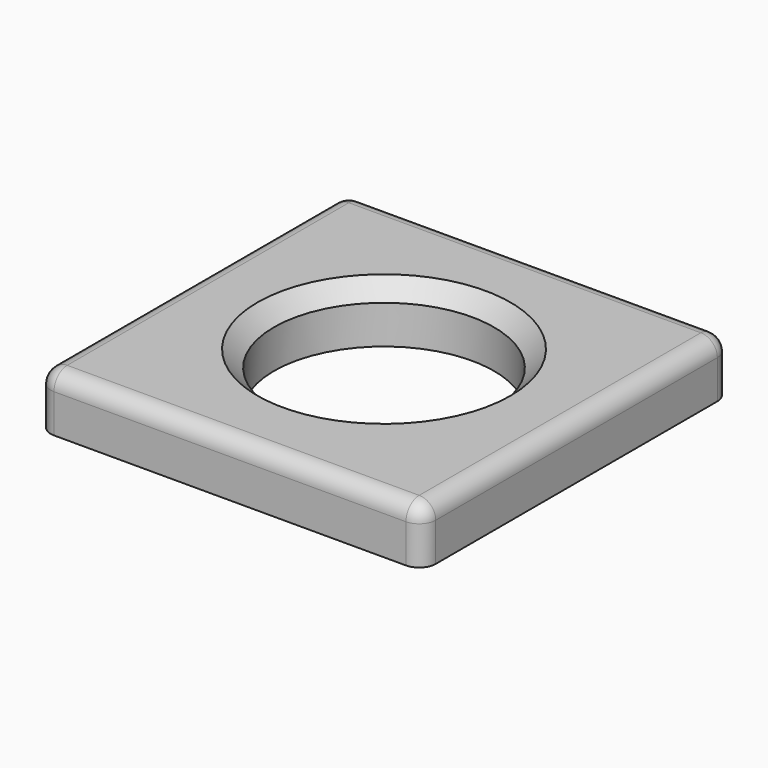
from build123d import *

# Parameters (mm, degrees)
CYLINDER_R     = 20
CYLINDER_DEPTH = 20
BOX_W          = 70
BOX_H          = 70
BOX_DEPTH      = 10
CHAMFER_SIZE   = 3
FILLET_R       = 3


with BuildPart() as cylinder:
    # Cylinder → Cylinder (new body)
    with BuildSketch(Plane.XY.offset(-1)):
        Circle(CYLINDER_R)
    extrude(amount=CYLINDER_DEPTH)


with BuildPart() as fillet_body:
    # Box → Box (new body)
    with BuildSketch(Plane(origin=(-35, -35, 0), x_dir=(1, 0, 0), z_dir=(0, 0, 1))):
        with Locations((35, 35)):
            Rectangle(BOX_W, BOX_H)
    extrude(amount=BOX_DEPTH)

    # Cut: cut Cylinder
    add(cylinder.part, mode=Mode.SUBTRACT)

    # Chamfer
    chamfer_edges = [fillet_body.edges().sort_by_distance(p)[0] for p in [
        (-20, 0, 10),
    ]]
    chamfer(chamfer_edges, length=CHAMFER_SIZE)

    # Fillet
    fillet_edges = [fillet_body.edges().sort_by_distance(p)[0] for p in [
        (-35, 0, 10),
        (0, 35, 10),
        (0, -35, 10),
        (35, 0, 10),
        (-35, -35, 5),
        (-35, 35, 5),
        (35, 35, 5),
        (35, -35, 5),
    ]]
    fillet(fillet_edges, radius=FILLET_R)


solid = fillet_body.part
